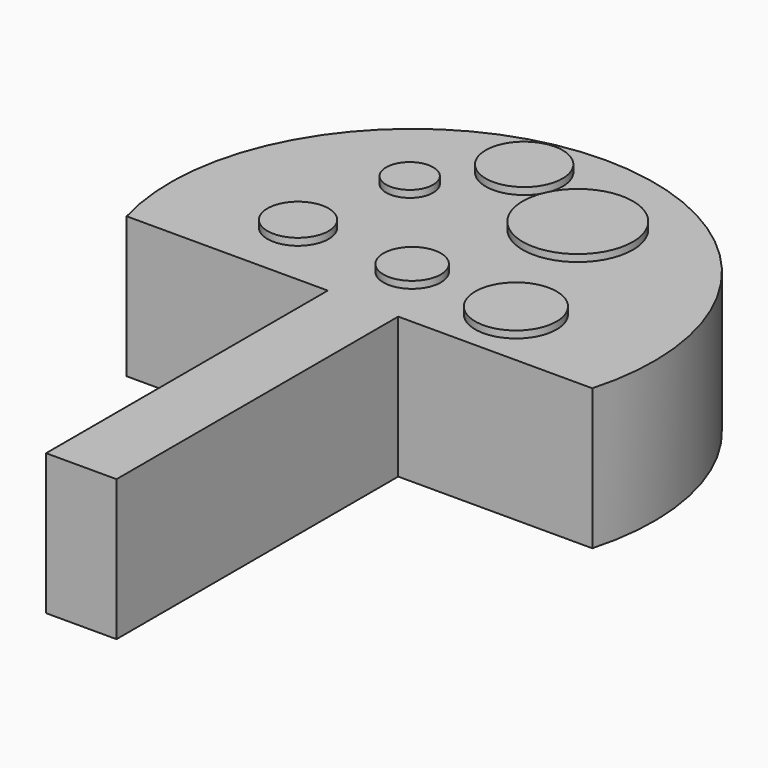
from build123d import *

# Parameters (mm, degrees)
F1_DEPTH = 2.54
F2_R     = 0.849257
F2_R_2   = 1.467639
F2_R_3   = 1.986785
F2_R_4   = 1.103769
F2_R_5   = 1.035394
F2_R_6   = 1.385658
F3_DEPTH = 0.254


with BuildPart() as f1:
    # F0 (on Top) → F1 (new body)
    with BuildSketch(Plane.XY):
        with BuildLine():
            Line((-1.269909, 0.074241), (-1.269909, -6.349547))
            Line((-1.269909, -6.349547), (1.269909, -6.349547))
            Line((1.269909, -6.349547), (1.269909, 0.111635))
            ThreePointArc((1.269909, 0.111635), (0.001368, 2e-05), (-1.269909, 0.074241))
        make_face()
        with BuildLine():
            Line((-1.269909, 6.349547), (-1.269909, 0.074241))
            ThreePointArc((-1.269909, 0.074241), (0.001368, 2e-05), (1.269909, 0.111635))
            Line((1.269909, 0.111635), (1.269909, 6.349547))
            Line((1.269909, 6.349547), (-1.269909, 6.349547))
        make_face()
        with BuildLine():
            Line((-8.52301, 6.349547), (-1.269909, 6.349547))
            Line((-1.269909, 6.349547), (1.269909, 6.349547))
            Line((1.269909, 6.349547), (8.268841, 6.349547))
            ThreePointArc((8.268841, 6.349547), (-0.127084, 17.449755), (-8.52301, 6.349547))
        make_face()
    extrude(amount=F1_DEPTH)

    # F2 (on face) → F3 (join)
    with BuildSketch(Plane.XY.offset(2.54)):
        with Locations((-3.528252, 12.866852)):
            Circle(F2_R)
        with Locations((3.777331, 8.522992)):
            Circle(F2_R_2)
        with Locations((1.901574, 13.656645)):
            Circle(F2_R_3)
        with Locations((-4.318044, 8.819164)):
            Circle(F2_R_4)
        with Locations((-0.127084, 8.724415)):
            Circle(F2_R_5)
        with Locations((-1.455046, 15.433677)):
            Circle(F2_R_6)
    extrude(amount=F3_DEPTH)

    # F4: F1 across plane


with BuildPart() as f1_1:
    add(f1.part)
    add(f1.part.mirror(Plane.XY))


solid = f1_1.part
